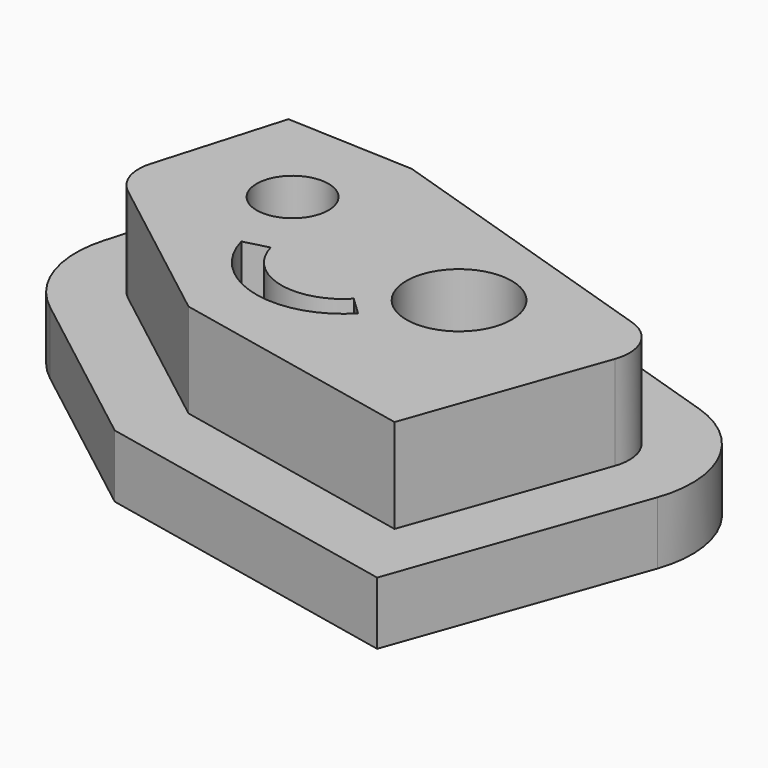
from build123d import *

# Parameters (mm, degrees)
F0_R     = 5.728623
F0_R_2   = 8.391993
F1_DEPTH = 25
F2_DEPTH = 10


with BuildPart() as f1:
    # F0 (on Top) → F1 (new body)
    with BuildSketch(Plane.XY):
        with BuildLine():
            Line((-12.392675, 28.53726), (-32.738149, 29.403025))
            Line((-32.738149, 29.403025), (-38.62714, 9.257409))
            ThreePointArc((-38.62714, 9.257409), (-38.565992, 5.131079), (-36.190918, 1.756265))
            Line((-36.190918, 1.756265), (-10.90472, -17.801028))
            Line((-10.90472, -17.801028), (28.572614, -26.104371))
            Line((28.572614, -26.104371), (39.37257, 4.333038))
            ThreePointArc((39.37257, 4.333038), (39.049502, 9.778257), (34.916635, 13.33834))
            Line((34.916635, 13.33834), (-12.392675, 28.53726))
        make_face()
        with BuildLine():
            ThreePointArc((6.730466, -6.065113), (-6.772657, -9.913719), (-16.715707, 0))
            Line((-16.715707, 0), (-12.846154, 1.013192))
            ThreePointArc((-12.846154, 1.013192), (-5.770901, -6.041189), (3.837619, -3.302607))
            Line((3.837619, -3.302607), (6.730466, -6.065113))
        make_face(mode=Mode.SUBTRACT)
        with Locations((-19.229598, 13.33834)):
            Circle(F0_R, mode=Mode.SUBTRACT)
        with Locations((14.337256, 4.548747)):
            Circle(F0_R_2, mode=Mode.SUBTRACT)
    extrude(amount=F1_DEPTH)

    # F0 (on Top) → F2 (join)
    with BuildSketch(Plane.XY):
        with BuildLine():
            Line((37.975333, 22.859074), (-10.619018, 38.470835))
            Line((-10.619018, 38.470835), (-33.34205, 39.437773))
            Line((-33.34205, 39.437773), (-42.405677, 31.972025))
            Line((-42.405677, 31.972025), (-48.22545, 12.063199))
            ThreePointArc((-48.22545, 12.063199), (-48.076948, 2.04211), (-42.30891, -6.153866))
            Line((-42.30891, -6.153866), (-15.208019, -27.114711))
            Line((-15.208019, -27.114711), (35.072481, -37.690305))
            Line((35.072481, -37.690305), (48.796888, 0.989053))
            ThreePointArc((48.796888, 0.989053), (48.012296, 14.213157), (37.975333, 22.859074))
        make_face()
        with BuildLine():
            Line((-38.62714, 9.257409), (-32.738149, 29.403025))
            Line((-32.738149, 29.403025), (-12.392675, 28.53726))
            Line((-12.392675, 28.53726), (34.916635, 13.33834))
            ThreePointArc((34.916635, 13.33834), (39.049502, 9.778257), (39.37257, 4.333038))
            Line((39.37257, 4.333038), (28.572614, -26.104371))
            Line((28.572614, -26.104371), (-10.90472, -17.801028))
            Line((-10.90472, -17.801028), (-36.190918, 1.756265))
            ThreePointArc((-36.190918, 1.756265), (-38.565992, 5.131079), (-38.62714, 9.257409))
        make_face(mode=Mode.SUBTRACT)
    extrude(amount=F2_DEPTH)


solid = f1.part
